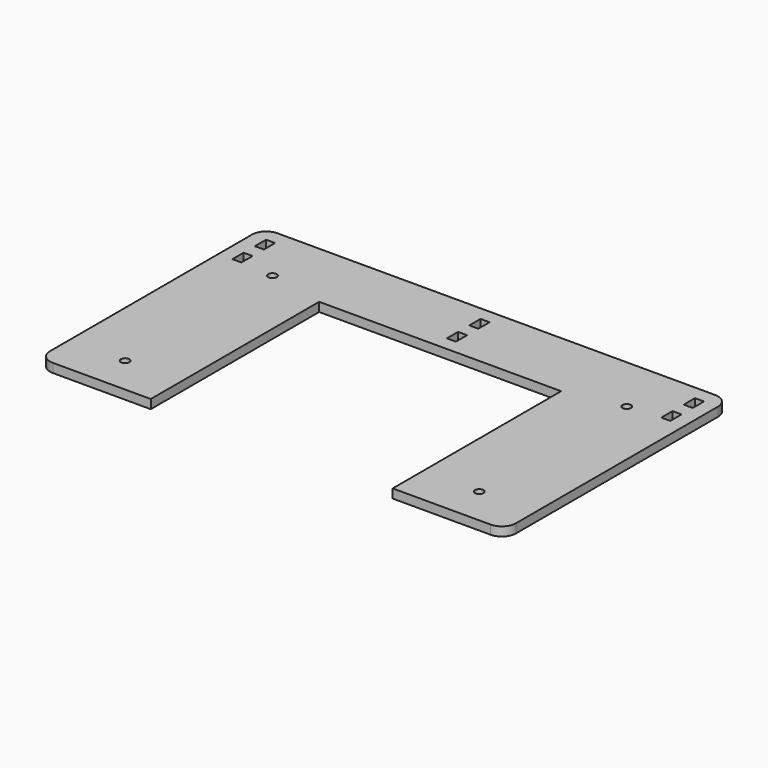
from build123d import *

# Parameters (mm, degrees)
F0_W      = 166
F0_H      = 100
F1_DEPTH  = 3.2
F2_R      = 5
F3_R      = 1.5
F4_DEPTH  = 25
F6_DEPTH  = 25
F7_W      = 3.2
F7_H      = 5
F8_DEPTH  = 25
F9_W      = 86.2
F9_H      = 5
F10_DEPTH = 3.2
F11_W     = 3.2
F11_H     = 5
F12_DEPTH = 25


with BuildPart() as f1:
    # F0 (on Top) → F1 (new body)
    with BuildSketch(Plane.XY):
        Rectangle(F0_W, F0_H)
    extrude(amount=F1_DEPTH)

    # F2
    f2_edges = [f1.edges().sort_by_distance(p)[0] for p in [
        (83, 50, 1.6),
        (83, -50, 1.6),
        (-83, -50, 1.6),
        (-83, 50, 1.6),
    ]]
    fillet(f2_edges, radius=F2_R)

    # F3 (on face) → F4 (cut)
    with BuildSketch(Plane.XY.offset(3.2)):
        with Locations((63.1, 29.2)):
            Circle(F3_R)
        with Locations((-63.1, 29.2)):
            Circle(F3_R)
        with Locations((-63.1, -36.45)):
            Circle(F3_R)
        with Locations((63.1, -36.45)):
            Circle(F3_R)
    extrude(amount=-F4_DEPTH, mode=Mode.SUBTRACT)

    # F5 (on face) → F6 (cut)
    with BuildSketch(Plane.XY.offset(3.2)):
        Polygon((43.1, 30), (0, 30), (-43.1, 30), (-43.1, -50), (43.1, -50), align=None)
    extrude(amount=-F6_DEPTH, mode=Mode.SUBTRACT)

    # F7 (on face) → F8 (cut)
    with BuildSketch(Plane.XY.offset(3.2)):
        with Locations((-76.4, 42.5)):
            Rectangle(F7_W, F7_H)
        with Locations((-76.4, 32.5)):
            Rectangle(F7_W, F7_H)
        with Locations((76.4, 32.5)):
            Rectangle(F7_W, F7_H)
        with Locations((76.4, 42.5)):
            Rectangle(F7_W, F7_H)
    extrude(amount=-F8_DEPTH, mode=Mode.SUBTRACT)

    # F9 (on face) → F10 (join, through all)
    with BuildSketch(Plane.XY.offset(3.2)):
        with Locations((0, 27.5)):
            Rectangle(F9_W, F9_H)
    extrude(amount=-F10_DEPTH)

    # F11 (on face) → F12 (cut)
    with BuildSketch(Plane(origin=(0, 0, 0), x_dir=(1, 0, 0), z_dir=(0, 0, -1))):
        with Locations((0, -32.5)):
            Rectangle(F11_W, F11_H)
        with Locations((0, -42.5)):
            Rectangle(F11_W, F11_H)
    extrude(amount=-F12_DEPTH, mode=Mode.SUBTRACT)


solid = f1.part
